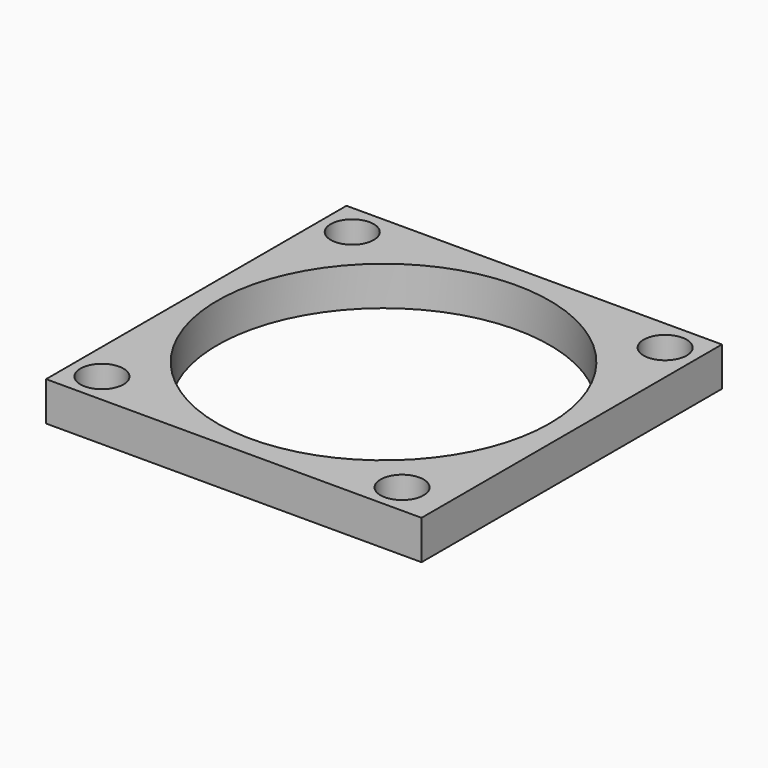
from build123d import *

# Parameters (mm, degrees)
SKETCH_W   = 19.2
SKETCH_H   = 19.2
SKETCH_R   = 8.5
SKETCH_R_2 = 1.1
PAD_DEPTH  = 2


with BuildPart() as part:
    # Sketch → Pad (new body)
    with BuildSketch(Plane.XY):
        with Locations((0, 0.029289)):
            Rectangle(SKETCH_W, SKETCH_H)
        Circle(SKETCH_R, mode=Mode.SUBTRACT)
        with Locations((-8, 8)):
            Circle(SKETCH_R_2, mode=Mode.SUBTRACT)
        with Locations((8, 8)):
            Circle(SKETCH_R_2, mode=Mode.SUBTRACT)
        with Locations((7.348096, -8)):
            Circle(SKETCH_R_2, mode=Mode.SUBTRACT)
        with Locations((-8, -8)):
            Circle(SKETCH_R_2, mode=Mode.SUBTRACT)
    extrude(amount=PAD_DEPTH)


solid = part.part
